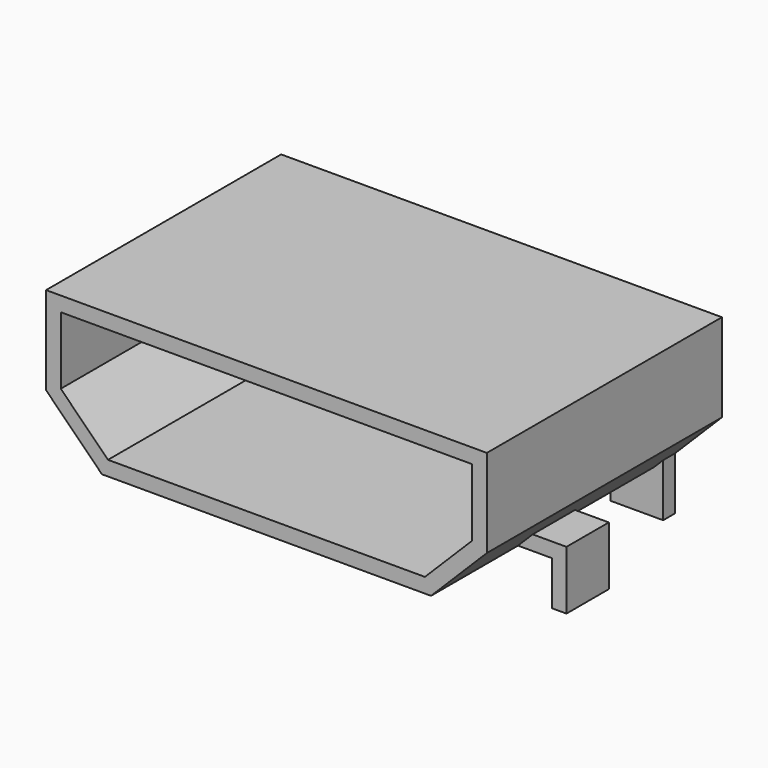
from build123d import *

# Parameters (mm, degrees)
F1_DEPTH = 5
F4_DEPTH = 0.45
F5_W     = 0.9
F5_H     = 1
F6_DEPTH = 0.25


with BuildPart() as f1:
    # F0 (on Front) → F1 (new body)
    with BuildSketch(Plane.XZ):
        Polygon((-2.8, 0), (0, 0), (2.8, 0), (3.75, 0.95), (3.75, 2.45), (0, 2.45), (-3.75, 2.45), (-3.75, 0.95), align=None)
        Polygon((0, 2.1999999881), (3.4999999881, 2.1999999881), (3.4999999881, 1.0535533955), (2.6964466045, 0.2500000119), (0, 0.2500000119), (-2.6964466045, 0.2500000119), (-3.4999999881, 1.0535533955), (-3.4999999881, 2.1999999881), align=None, mode=Mode.SUBTRACT)
    extrude(amount=-F1_DEPTH)

    # F3 (on offset) → F4 (join, symmetric)
    with BuildSketch(Plane(origin=(0, 2.3, 0), x_dir=(-1, 0, 0), z_dir=(0, 1, 0))):
        Polygon((-3.625, 0.2500000119), (-3.625, -0.7499999881), (-3.375, -0.7499999881), (-3.375, 0), (3.375, 0), (3.375, -0.7499999881), (3.625, -0.7499999881), (3.625, 0.2500000119), align=None)
    extrude(amount=F4_DEPTH, both=True)

    # F5 (on face) → F6 (join)
    with BuildSketch(Plane(origin=(0, 5, 0), x_dir=(-1, 0, 0), z_dir=(0, 1, 0))):
        with Locations((-2.5, -0.2499999881)):
            Rectangle(F5_W, F5_H)
        with Locations((2.5, -0.2499999881)):
            Rectangle(F5_W, F5_H)
    extrude(amount=-F6_DEPTH)


solid = f1.part
